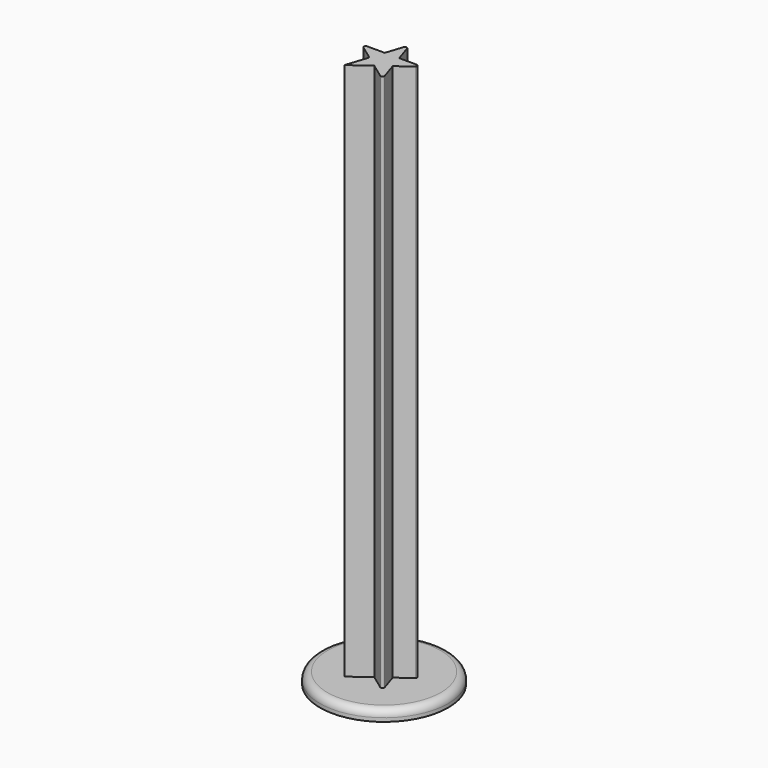
from build123d import *

# Parameters (mm, degrees)
F1_DEPTH = 150
F2_R     = 0.5
F3_R     = 17.5
F4_DEPTH = 3
F5_R     = 2


with BuildPart() as f1:
    # F0 (on Top) → F1 (new body)
    with BuildSketch(Plane.XY):
        Polygon((3.178624, -1.032797), (8.321745, 2.703899), (1.964497, 2.703899), (0, 8.75), (-1.964497, 2.703899), (-8.321745, 2.703899), (-3.178624, -1.032797), (-5.143121, -7.078899), (0, -3.342203), (5.143121, -7.078899), align=None)
    extrude(amount=F1_DEPTH)

    # F2
    f2_edges = [f1.edges().sort_by_distance(p)[0] for p in [
        (-8.321745, 2.703899, 75),
        (-3.178624, -1.032797, 75),
        (5.143121, -7.078899, 75),
        (0, 8.75, 75),
        (8.321745, 2.703899, 75),
    ]]
    fillet(f2_edges, radius=F2_R)

    # F3 (on Top) → F4 (join)
    with BuildSketch(Plane.XY):
        Circle(F3_R)
    extrude(amount=F4_DEPTH)

    # F5
    f5_edges = [f1.edges().sort_by_distance(p)[0] for p in [
        (-17.5, 0, 3),
    ]]
    fillet(f5_edges, radius=F5_R)


solid = f1.part
